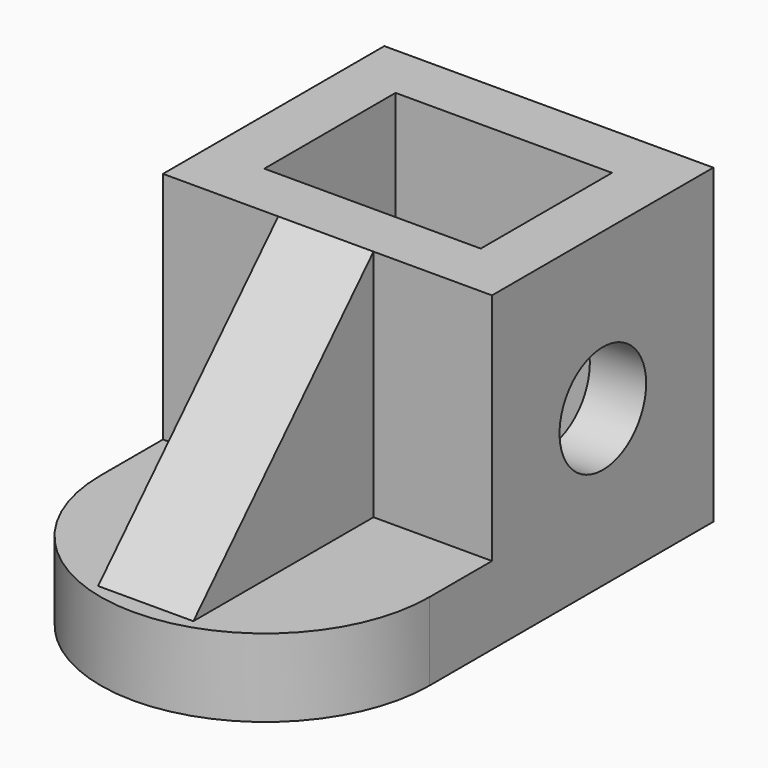
from build123d import *

# Parameters (mm, degrees)
F0_W      = 75.9807191789
F0_H      = 63.8928804547
F1_DEPTH  = 72
F2_T      = -13
F3_R      = 12.5
F4_DEPTH  = 100
F6_DEPTH  = 56
F8_DEPTH  = 52
F10_DEPTH = 25
F12_DEPTH = 25


with BuildPart() as f1:
    # F0 (on Top) → F1 (new body)
    with BuildSketch(Plane.XY):
        with Locations((-0.7195156068, -7.6268529519)):
            Rectangle(F0_W, F0_H)
    extrude(amount=F1_DEPTH)

    # F2
    f2_openings = [f1.faces().sort_by_distance(p)[0] for p in [
        (-0.719516, -7.626853, 72),
    ]]
    offset(amount=F2_T, openings=f2_openings)

    # F3 (on face) → F4 (cut)
    with BuildSketch(Plane.YZ.offset(37.2708439827)):
        with Locations((-7.5732931793, 36)):
            Circle(F3_R)
    extrude(amount=-F4_DEPTH, mode=Mode.SUBTRACT)

    # F5 (on face) → F6 (join)
    with BuildSketch(Plane.XZ.offset(39.5732931793)):
        Polygon((-38.7098751962, 0), (37.2708439827, 0), (37.2708439827, 18), (10.2804843932, 18), (-11.7195156068, 18), (-38.7098751962, 18), align=None)
    extrude(amount=F6_DEPTH)

    # F7 (on face) → F8 (join)
    with BuildSketch(Plane.XZ.offset(39.5732931793)):
        Polygon((-0.7098751962, 72), (-12.0902489871, 72), (-12.0902489871, 18), (9.9097510129, 18), (9.9097510129, 72), align=None)
    extrude(amount=F8_DEPTH)

    # F9 (on face) → F10 (cut)
    with BuildSketch(Plane.YZ.offset(9.9097510129)):
        Polygon((-91.5732931793, 72), (-91.5732931793, 18), (-39.5732931793, 72), align=None)
    extrude(amount=-F10_DEPTH, mode=Mode.SUBTRACT)

    # F11 (on face) → F12 (cut)
    with BuildSketch(Plane.XY.offset(18)):
        with BuildLine():
            ThreePointArc((37.2708439827, -57.5732931793), (-0.7195156068, -95.5636527687), (-38.7098751962, -57.5732931793))
            Line((-38.7098751962, -57.5732931793), (-38.7098751962, -95.5732931793))
            Line((-38.7098751962, -95.5732931793), (37.2708439827, -95.5732931793))
            Line((37.2708439827, -95.5732931793), (37.2708439827, -57.5732931793))
        make_face()
    extrude(amount=-F12_DEPTH, mode=Mode.SUBTRACT)


solid = f1.part
